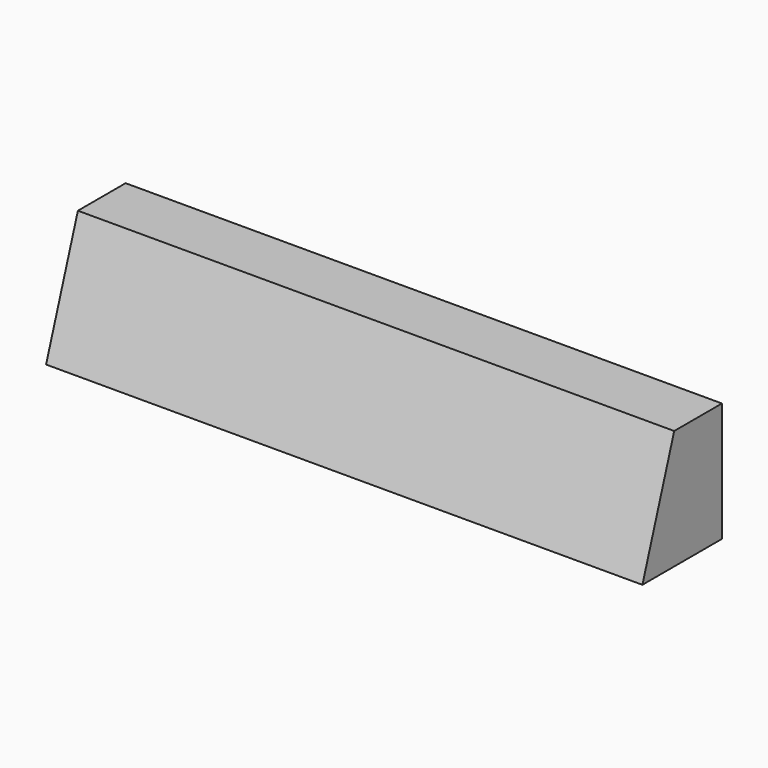
from build123d import *

# Parameters (mm, degrees)
F0_W     = 300
F0_H     = 60
F1_DEPTH = 30
F3_DEPTH = 300
F4_R     = 22.5
F5_DEPTH = 30


with BuildPart() as f1:
    # F0 (on Front) → F1 (new body)
    with BuildSketch(Plane.XZ):
        with Locations((-92.24209, 6.635918)):
            Rectangle(F0_W, F0_H)
    extrude(amount=F1_DEPTH)

    # F2 (on face) → F3 (join)
    with BuildSketch(Plane(origin=(-242.24209, 0, 0), x_dir=(0, -1, 0), z_dir=(-1, 0, 0))):
        Polygon((30, 36.635918), (30, -23.364082), (50, -23.364082), align=None)
    extrude(amount=-F3_DEPTH)

    # F4 (on face) → F5 (cut)
    with BuildSketch(Plane(origin=(0, 0, 0), x_dir=(-1, 0, 0), z_dir=(0, 1, 0))):
        with Locations((-27.75791, 6.635918)):
            Circle(F4_R)
        with BuildLine():
            ThreePointArc((54.74209, 6.635918), (48.151992, 22.545821), (32.24209, 29.135918))
            ThreePointArc((32.24209, 29.135918), (16.332187, -9.273985), (54.74209, 6.635918))
        make_face()
        with BuildLine():
            ThreePointArc((114.74209, 6.635918), (108.151992, 22.545821), (92.24209, 29.135918))
            ThreePointArc((92.24209, 29.135918), (76.332187, -9.273985), (114.74209, 6.635918))
        make_face()
        with BuildLine():
            ThreePointArc((174.74209, 6.635918), (168.151992, 22.545821), (152.24209, 29.135918))
            ThreePointArc((152.24209, 29.135918), (136.332187, -9.273985), (174.74209, 6.635918))
        make_face()
        with Locations((212.24209, 6.635918)):
            Circle(F4_R)
    extrude(amount=-F5_DEPTH, mode=Mode.SUBTRACT)


solid = f1.part
